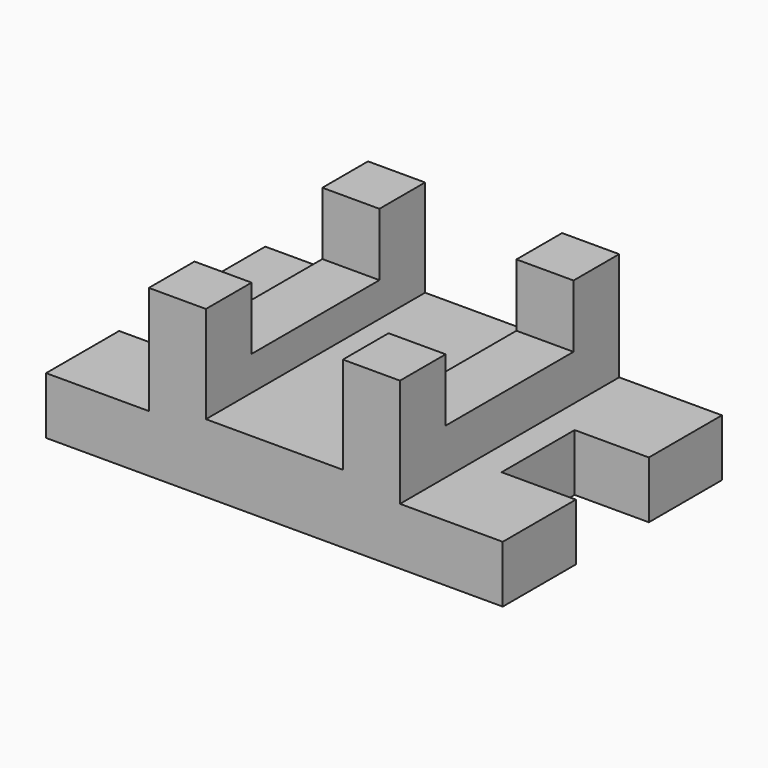
from build123d import *

# Parameters (mm, degrees)
F0_R     = 15.875
F1_DEPTH = 38.1
F0_W     = 31.75
F0_H     = 31.75
F2_DEPTH = 92.075
F0_H_2   = 88.9
F3_DEPTH = 57.15
F0_W_2   = 41.275
F0_H_3   = 50.8
F4_DEPTH = 31.75


with BuildPart() as f1:
    # F0 (on Top) → F1 (new body)
    with BuildSketch(Plane.XY):
        Polygon((38.1, 50.8), (-38.1, 50.8), (-38.1, 19.05), (-38.1, -69.85), (-38.1, -101.6), (38.1, -101.6), (38.1, -69.85), (38.1, 19.05), align=None)
        with Locations((0, -25.4)):
            Circle(F0_R, mode=Mode.SUBTRACT)
    extrude(amount=F1_DEPTH)

    # F0 (on Top) → F2 (join)
    with BuildSketch(Plane.XY):
        with Locations((-53.975, 34.925)):
            Rectangle(F0_W, F0_H)
        with Locations((-53.975, -85.725)):
            Rectangle(F0_W, F0_H)
        with Locations((53.975, -85.725)):
            Rectangle(F0_W, F0_H)
        with Locations((53.975, 34.925)):
            Rectangle(F0_W, F0_H)
    extrude(amount=F2_DEPTH)

    # F0 (on Top) → F3 (join)
    with BuildSketch(Plane.XY):
        with Locations((53.975, -25.4)):
            Rectangle(F0_W, F0_H_2)
        with Locations((-53.975, -25.4)):
            Rectangle(F0_W, F0_H_2)
    extrude(amount=F3_DEPTH)

    # F0 (on Top) → F4 (join)
    with BuildSketch(Plane.XY):
        with Locations((106.3625, 25.4)):
            Rectangle(F0_W_2, F0_H_3)
        with Locations((106.3625, -76.2)):
            Rectangle(F0_W_2, F0_H_3)
        Polygon((85.725, 50.8), (69.85, 50.8), (69.85, 19.05), (69.85, -69.85), (69.85, -101.6), (85.725, -101.6), (85.725, -50.8), (85.725, 0), align=None)
        Polygon((-69.85, 50.8), (-85.725, 50.8), (-85.725, 0), (-85.725, -50.8), (-85.725, -101.6), (-69.85, -101.6), (-69.85, -69.85), (-69.85, 19.05), align=None)
        with Locations((-106.3625, 25.4)):
            Rectangle(F0_W_2, F0_H_3)
        with Locations((-106.3625, -76.2)):
            Rectangle(F0_W_2, F0_H_3)
    extrude(amount=F4_DEPTH)


solid = f1.part
